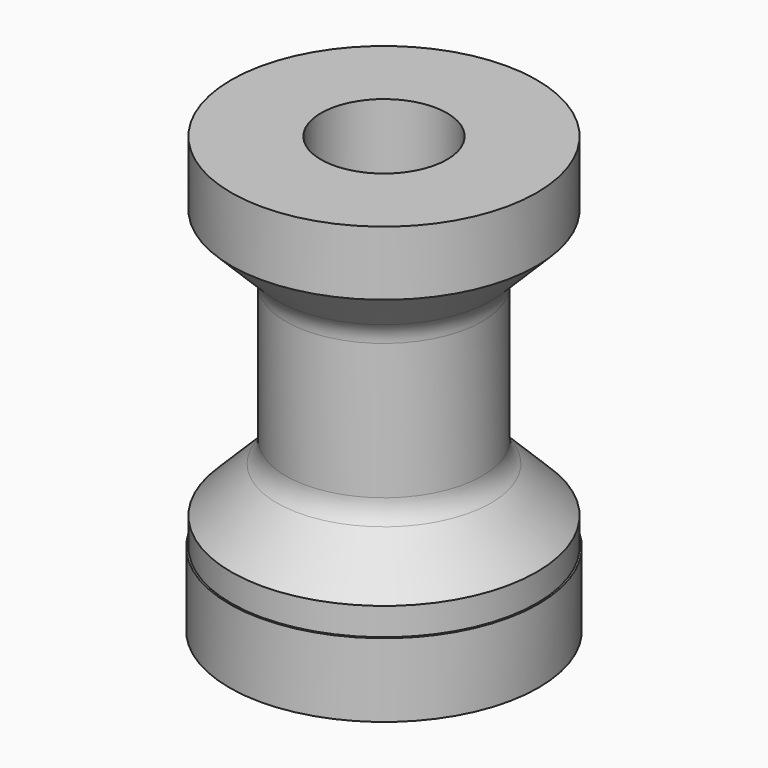
from build123d import *

# Parameters (mm, degrees)
F7_R      = 26
F7_R_2    = 13.4
F8_DEPTH  = 6.2
F12_COUNT = 6
F15_COUNT = 6
F16_R     = 25.7
F16_R_2   = 10.6
F17_DEPTH = 67


with BuildPart() as f8:
    # F7 (on Top) → F8 (new body, symmetric)
    with BuildSketch(Plane.XY):
        Circle(F7_R)
        Circle(F7_R_2, mode=Mode.SUBTRACT)
    extrude(amount=F8_DEPTH, both=True)

    # F12: F11 ×6 about axis
    f12_axis = Axis((0, 0, 16.6758969426), (0, 0, 1))


with BuildPart() as f11:
    # F10 (on Top) → F11 (revolve)
    with BuildSketch(Plane.XY):
        with BuildLine():
            ThreePointArc((0, 10), (4.5961940777, 11.9038059223), (6.5, 16.5))
            ThreePointArc((6.5, 16.5), (4.5961940777, 21.0961940777), (0, 23))
            Line((0, 23), (0, 10))
        make_face()
    revolve(axis=Axis((0, 13, 0), (0, 1, 0)))


with BuildPart() as f8_1:
    add(f8.part)
    for i in range(1, F12_COUNT):
        add(f11.part.rotate(f12_axis, i * 360 / F12_COUNT), mode=Mode.SUBTRACT)

    # F12#seed: cut F11
    add(f11.part, mode=Mode.SUBTRACT)


with BuildPart() as f14:
    # F13 (on Top) → F14 (revolve)
    with BuildSketch(Plane.XY):
        with BuildLine():
            ThreePointArc((0, 10.3), (4.3840620434, 12.1159379566), (6.2, 16.5))
            ThreePointArc((6.2, 16.5), (4.3840620434, 20.8840620434), (0, 22.7))
            Line((0, 22.7), (0, 10.3))
        make_face()
    revolve(axis=Axis((0, 13, 0), (0, 1, 0)))


with BuildPart() as f15_1:
    # F15: instance of F14
    add(f14.part.rotate(Axis((0, 0, 16.6758969426), (0, 0, 1)), 1 * 360 / F15_COUNT))


with BuildPart() as f15_2:
    # F15: instance of F14
    add(f14.part.rotate(Axis((0, 0, 16.6758969426), (0, 0, 1)), 2 * 360 / F15_COUNT))


with BuildPart() as f15_3:
    # F15: instance of F14
    add(f14.part.rotate(Axis((0, 0, 16.6758969426), (0, 0, 1)), 3 * 360 / F15_COUNT))


with BuildPart() as f15_4:
    # F15: instance of F14
    add(f14.part.rotate(Axis((0, 0, 16.6758969426), (0, 0, 1)), 4 * 360 / F15_COUNT))


with BuildPart() as f15_5:
    # F15: instance of F14
    add(f14.part.rotate(Axis((0, 0, 16.6758969426), (0, 0, 1)), 5 * 360 / F15_COUNT))


with BuildPart() as f17:
    # F16 (on Top) → F17 (new body)
    with BuildSketch(Plane.XY):
        Circle(F16_R)
        Circle(F16_R_2, mode=Mode.SUBTRACT)
    extrude(amount=F17_DEPTH)

    # F18 (on Front) → F19 (revolve, cut)
    with BuildSketch(Plane.XZ):
        with BuildLine():
            Line((26.5335416049, 10), (26.5335416049, 0))
            Line((26.5335416049, 0), (34.7323827446, 0))
            Line((34.7323827446, 0), (34.7323827446, 68.9981356263))
            Line((34.7323827446, 68.9981356263), (26.5335416049, 68.9981356263))
            Line((26.5335416049, 68.9981356263), (26.5335416049, 57))
            Line((26.5335416049, 57), (17.9980076989, 48.4644660941))
            ThreePointArc((17.9980076989, 48.4644660941), (16.9141439423, 46.84234935), (16.5335416049, 44.9289321881))
            Line((16.5335416049, 44.9289321881), (16.5335416049, 22.0710678119))
            ThreePointArc((16.5335416049, 22.0710678119), (16.9141439423, 20.15765065), (17.9980076989, 18.5355339059))
            Line((17.9980076989, 18.5355339059), (26.5335416049, 10))
        make_face()
    revolve(axis=Axis((0, 0, 39.5853221416), (0, 0, 1)), mode=Mode.SUBTRACT)


solid = Compound([f8_1.part, f14.part, f15_1.part, f15_2.part, f15_3.part, f15_4.part, f15_5.part, f17.part])
